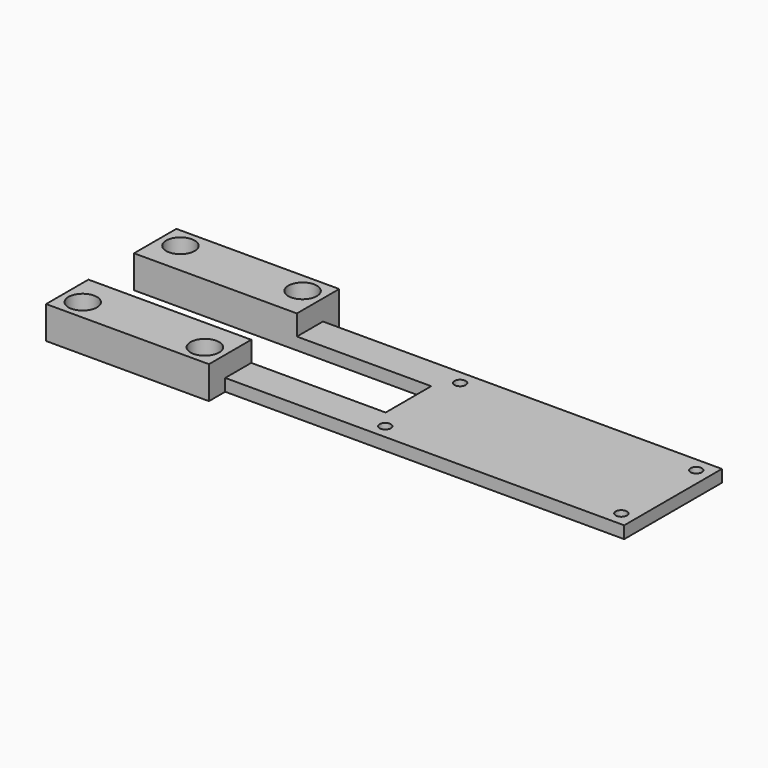
from build123d import *

# Parameters (mm, degrees)
SKETCH_R     = 1.375
SKETCH_R_2   = 3.5
PAD_DEPTH    = 8
SKETCH001_W  = 30
SKETCH001_H  = 5
POCKET_DEPTH = 98


with BuildPart() as part:
    # Sketch → Pad (new body)
    with BuildSketch(Plane.XY):
        Polygon((0, 0), (65, 0), (65, -30), (0, -30), (-33, -30), (-33, -35), (-73, -35), (-73, -22), (-33, -22), (0, -22), (0, -8), (-33, -8), (-73, -8), (-73, 5), (-33, 5), (-33, 0), align=None)
        with Locations((3.5, -3.5)):
            Circle(SKETCH_R, mode=Mode.SUBTRACT)
        with Locations((61.5, -3.5)):
            Circle(SKETCH_R, mode=Mode.SUBTRACT)
        with Locations((3.5, -26.5)):
            Circle(SKETCH_R, mode=Mode.SUBTRACT)
        with Locations((61.5, -26.5)):
            Circle(SKETCH_R, mode=Mode.SUBTRACT)
        with Locations((-68, 0)):
            Circle(SKETCH_R_2, mode=Mode.SUBTRACT)
        with Locations((-38, 0)):
            Circle(SKETCH_R_2, mode=Mode.SUBTRACT)
        with Locations((-68, -30)):
            Circle(SKETCH_R_2, mode=Mode.SUBTRACT)
        with Locations((-38, -30)):
            Circle(SKETCH_R_2, mode=Mode.SUBTRACT)
    extrude(amount=PAD_DEPTH)

    # Sketch001 → Pocket (cut)
    with BuildSketch(Plane.YZ.offset(65)):
        with Locations((-15, 5.5)):
            Rectangle(SKETCH001_W, SKETCH001_H)
    extrude(amount=-POCKET_DEPTH, mode=Mode.SUBTRACT)


solid = part.part
